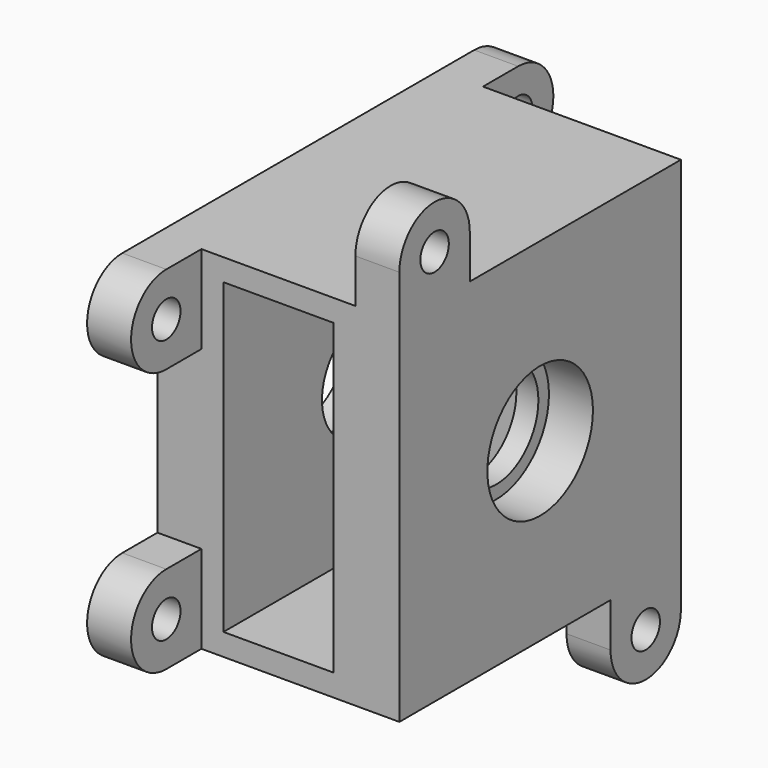
from build123d import *

# Parameters (mm, degrees)
F0_R     = 15
F0_R_2   = 4.05
F1_DEPTH = 10
F2_START = 10
F0_R_3   = 12
F2_DEPTH = 5
F3_START = 15
F3_DEPTH = 25
F4_START = 40
F4_DEPTH = 5
F5_START = 45
F5_DEPTH = 10
F6_START = 45
F6_DEPTH = 10
F7_DEPTH = 10


with BuildPart() as f1:
    # F0 (on Right) → F1 (new body)
    with BuildSketch(Plane.YZ):
        Polygon((35, -40), (40, -40), (40, -20), (40, 20), (40, 25), (40, 35), (40, 40), (-20, 40), (-40, 40), (-40, 35), (35, 35), (35, -35), (-40, -35), (-40, -40), (20, -40), align=None)
        Polygon((-40, -20), (-40, -35), (35, -35), (35, 35), (-40, 35), (-40, 20), align=None)
        Circle(F0_R, mode=Mode.SUBTRACT)
        with BuildLine():
            Line((-50, 20), (-40, 20))
            Line((-40, 20), (-40, 35))
            Line((-40, 35), (-40, 40))
            Line((-40, 40), (-50, 40))
            ThreePointArc((-50, 40), (-60, 30), (-50, 20))
        make_face()
        with Locations((-50, 30)):
            Circle(F0_R_2, mode=Mode.SUBTRACT)
        with BuildLine():
            Line((-50, -40), (-40, -40))
            Line((-40, -40), (-40, -35))
            Line((-40, -35), (-40, -20))
            Line((-40, -20), (-50, -20))
            ThreePointArc((-50, -20), (-60, -30), (-50, -40))
        make_face()
        with Locations((-50, -30)):
            Circle(F0_R_2, mode=Mode.SUBTRACT)
    extrude(amount=F1_DEPTH)

    # F0 (on Right) → F2 (join)
    with BuildSketch(Plane.YZ.offset(F2_START)):
        Polygon((-40, -20), (-40, -35), (35, -35), (35, 35), (-40, 35), (-40, 20), align=None)
        Circle(F0_R, mode=Mode.SUBTRACT)
        Polygon((35, -40), (40, -40), (40, -20), (40, 20), (40, 25), (40, 35), (40, 40), (-20, 40), (-40, 40), (-40, 35), (35, 35), (35, -35), (-40, -35), (-40, -40), (20, -40), align=None)
        Circle(F0_R)
        Circle(F0_R_3, mode=Mode.SUBTRACT)
    extrude(amount=F2_DEPTH)

    # F0 (on Right) → F3 (join)
    with BuildSketch(Plane.YZ.offset(F3_START)):
        Polygon((35, -40), (40, -40), (40, -20), (40, 20), (40, 25), (40, 35), (40, 40), (-20, 40), (-40, 40), (-40, 35), (35, 35), (35, -35), (-40, -35), (-40, -40), (20, -40), align=None)
    extrude(amount=F3_DEPTH)

    # F0 (on Right) → F4 (join)
    with BuildSketch(Plane.YZ.offset(F4_START)):
        Polygon((35, -40), (40, -40), (40, -20), (40, 20), (40, 25), (40, 35), (40, 40), (-20, 40), (-40, 40), (-40, 35), (35, 35), (35, -35), (-40, -35), (-40, -40), (20, -40), align=None)
        Polygon((-40, -20), (-40, -35), (35, -35), (35, 35), (-40, 35), (-40, 20), align=None)
        Circle(F0_R, mode=Mode.SUBTRACT)
        Circle(F0_R)
        Circle(F0_R_3, mode=Mode.SUBTRACT)
    extrude(amount=F4_DEPTH)

    # F0 (on Right) → F5 (join)
    with BuildSketch(Plane.YZ.offset(F5_START)):
        Polygon((35, -40), (40, -40), (40, -20), (40, 20), (40, 25), (40, 35), (40, 40), (-20, 40), (-40, 40), (-40, 35), (35, 35), (35, -35), (-40, -35), (-40, -40), (20, -40), align=None)
        Polygon((-40, -20), (-40, -35), (35, -35), (35, 35), (-40, 35), (-40, 20), align=None)
        Circle(F0_R, mode=Mode.SUBTRACT)
    extrude(amount=F5_DEPTH)

    # F0 (on Right) → F6 (join)
    with BuildSketch(Plane.YZ.offset(F6_START)):
        with BuildLine():
            Line((-40, 40), (-20, 40))
            Line((-20, 40), (-20, 50))
            ThreePointArc((-20, 50), (-30, 60), (-40, 50))
            Line((-40, 50), (-40, 40))
        make_face()
        with Locations((-30, 50)):
            Circle(F0_R_2, mode=Mode.SUBTRACT)
        with BuildLine():
            Line((40, -50), (40, -40))
            Line((40, -40), (35, -40))
            Line((35, -40), (20, -40))
            Line((20, -40), (20, -50))
            ThreePointArc((20, -50), (30, -60), (40, -50))
        make_face()
        with Locations((30, -50)):
            Circle(F0_R_2, mode=Mode.SUBTRACT)
    extrude(amount=F6_DEPTH)

    # F0 (on Right) → F7 (join)
    with BuildSketch(Plane.YZ):
        with BuildLine():
            Line((40, 25), (40, 20))
            Line((40, 20), (50, 20))
            ThreePointArc((50, 20), (60, 30), (50, 40))
            Line((50, 40), (40, 40))
            Line((40, 40), (40, 35))
            Line((40, 35), (40, 25))
        make_face()
        with Locations((50, 30)):
            Circle(F0_R_2, mode=Mode.SUBTRACT)
        with BuildLine():
            Line((40, -20), (40, -40))
            Line((40, -40), (50, -40))
            ThreePointArc((50, -40), (60, -30), (50, -20))
            Line((50, -20), (40, -20))
        make_face()
        with Locations((50, -30)):
            Circle(F0_R_2, mode=Mode.SUBTRACT)
    extrude(amount=F7_DEPTH)


solid = f1.part
